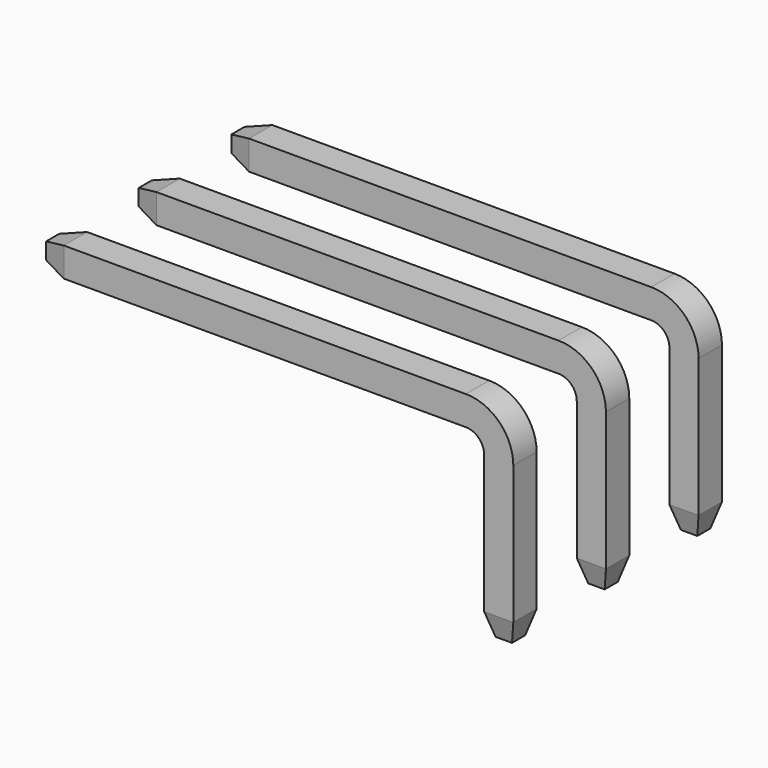
from build123d import *

# Parameters (mm, degrees)
SKETCH001_W       = 0.64
SKETCH001_H       = 0.64
SKETCH002_W       = 0.36
SKETCH002_H       = 0.36
LOFT_PITCH_ANGLE  = -90
CLONE_PITCH_ANGLE = 90
PAD_DEPTH         = 0.32
ARRAY_Y_COUNT     = 3
ARRAY_Y_PITCH     = 2.54


with BuildPart() as pin_end:
    # Sketch001 → Loft section 0
    with BuildSketch(Plane(origin=(-9.54, 0, 0), x_dir=(0, 0, -1), z_dir=(-1, 0, 0))):
        with Locations((-1.25, 0)):
            Rectangle(SKETCH001_W, SKETCH001_H)
    # Sketch002 → Loft section 1
    with BuildSketch(Plane(origin=(-10.04, 0, 0), x_dir=(0, 0, -1), z_dir=(-1, 0, 0))):
        with Locations((-1.25, 0)):
            Rectangle(SKETCH002_W, SKETCH002_H)
    loft()


with BuildPart() as pin_end_1:
    # Loft pitch: moved
    add(pin_end.part.rotate(Axis((0, 0, 0), (0, 1, 0)), LOFT_PITCH_ANGLE))


with BuildPart() as pin_end_2:
    # Loft placement: moved
    add(pin_end_1.part.moved(Location((1.25, 0, 7.04))))


with BuildPart() as pin_end2:
    # Clone base: copy of Pin-end
    add(pin_end_2.part)


with BuildPart() as pin_end2_1:
    # Clone pitch: moved
    add(pin_end2.part.rotate(Axis((0, 0, 0), (0, 1, 0)), CLONE_PITCH_ANGLE))


with BuildPart() as pin_end2_2:
    # Clone placement: moved
    add(pin_end2_1.part.moved(Location((-7.04, 0, 1.25))))


with BuildPart() as obj1:
    # Sketch → Pad (new body, symmetric)
    with BuildSketch(Plane.XZ):
        with BuildLine():
            Line((0.32, 0.53), (0.32, -2.5))
            Line((0.32, -2.5), (-0.32, -2.5))
            Line((-0.32, -2.5), (-0.32, 0.53))
            ThreePointArc((-0.32, 0.53), (-0.437157, 0.812843), (-0.72, 0.93))
            Line((-0.72, 0.93), (-9.54, 0.93))
            Line((-9.54, 0.93), (-9.54, 1.57))
            Line((-9.54, 1.57), (-0.72, 1.57))
            ThreePointArc((0.32, 0.53), (0.015391, 1.265391), (-0.72, 1.57))
        make_face()
    extrude(amount=PAD_DEPTH, both=True)

    # Fusion: union Pin-end, Pin-end2
    add(pin_end_2.part)
    add(pin_end2_2.part)

    # Array Y: obj1 ×3


with BuildPart() as obj1_1:
    add(obj1.part)
    with Locations(*[(0, i * ARRAY_Y_PITCH, 0) for i in range(1, ARRAY_Y_COUNT)]):
        add(obj1.part)


solid = obj1_1.part
